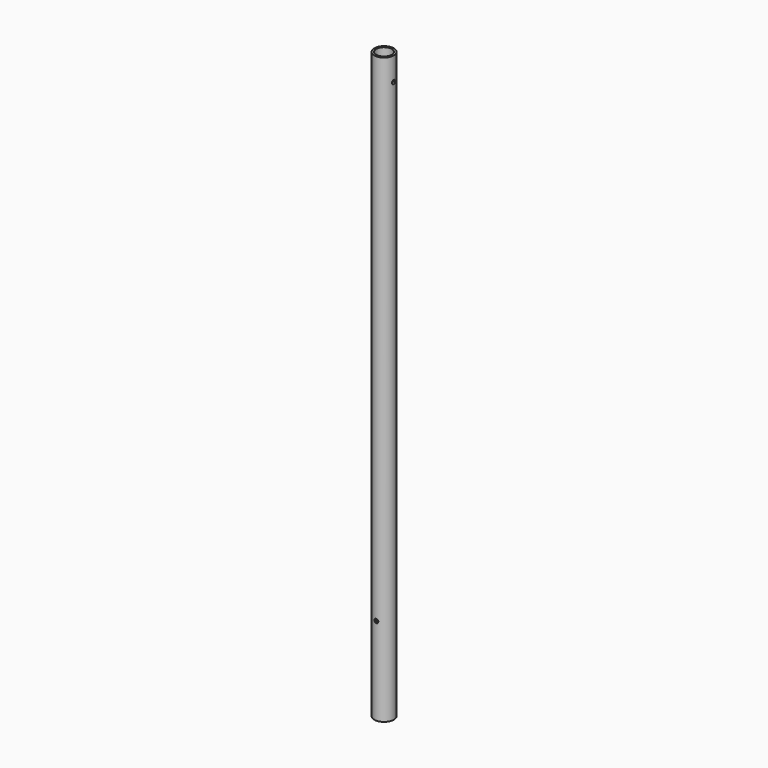
from build123d import *

# Parameters (mm, degrees)
F0_R          = 5
F0_R_2        = 4
F1_DEPTH      = 150
F2_R          = 1
F3_DEPTH      = 5.001
F3_DEPTH_BACK = 5.001
F4_R          = 1
F5_DEPTH      = 5.0010001
F5_DEPTH_BACK = 5.0010001


with BuildPart() as f1:
    # F0 (on Top) → F1 (new body, symmetric)
    with BuildSketch(Plane.XY):
        Circle(F0_R)
        Circle(F0_R_2, mode=Mode.SUBTRACT)
    extrude(amount=F1_DEPTH, both=True)

    # F2 (on Front) → F3 (cut, two sides)
    with BuildSketch(Plane.XZ) as f3_sk:
        with Locations((0, -105)):
            Circle(F2_R)
    extrude(amount=-F3_DEPTH, mode=Mode.SUBTRACT)
    extrude(f3_sk.sketch, amount=F3_DEPTH_BACK, mode=Mode.SUBTRACT)

    # F4 (on Right) → F5 (cut, two sides)
    with BuildSketch(Plane.YZ) as f5_sk:
        with Locations((0, 138)):
            Circle(F4_R)
    extrude(amount=-F5_DEPTH, mode=Mode.SUBTRACT)
    extrude(f5_sk.sketch, amount=F5_DEPTH_BACK, mode=Mode.SUBTRACT)


solid = f1.part
